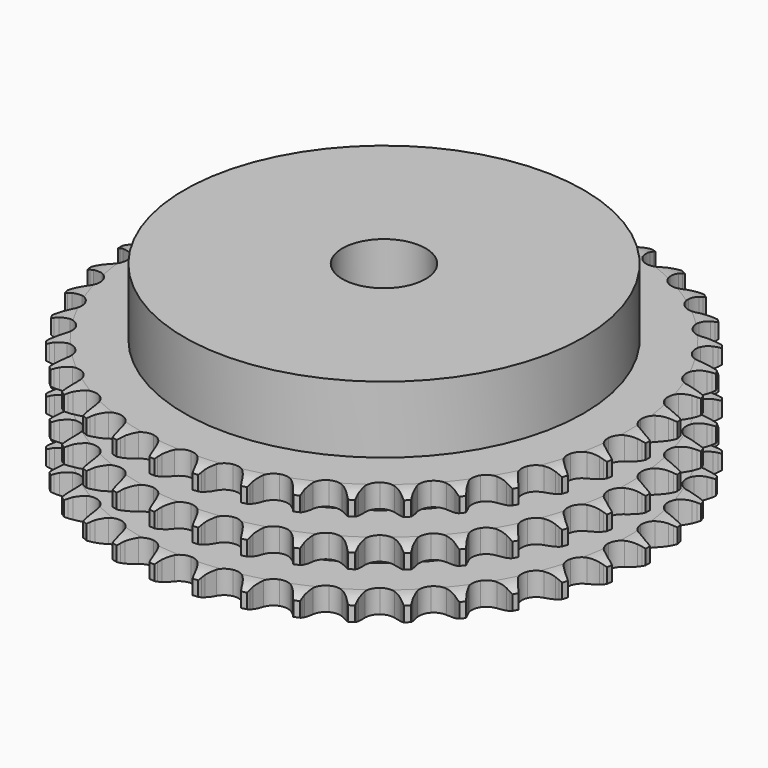
from build123d import *

# Parameters (mm, degrees)
PAD_DEPTH         = 34.9
SKETCH001_R       = 60
PAD001_DEPTH      = 55
SKETCH002_R       = 12.5
POCKET_DEPTH      = 0.001
POCKET_DEPTH_BACK = 55.001


with BuildPart() as part:
    # Sprocket → Pad (new body)
    with BuildSketch(Plane.XY):
        with BuildLine():
            ThreePointArc((-6.664627, 80.430092), (-5.93192, 79.411092), (-5.39606, 78.276157))
            Line((-5.39606, 78.276157), (-4.981042, 77.139156))
            ThreePointArc((-4.981042, 77.139156), (-4.324473, 75.677146), (-3.464601, 74.324677))
            ThreePointArc((-3.464601, 74.324677), (-1.939239, 73.041758), (0, 72.581366))
            ThreePointArc((0, 72.581366), (1.939239, 73.041758), (3.464601, 74.324677))
            ThreePointArc((3.464601, 74.324677), (4.324473, 75.677146), (4.981042, 77.139156))
            Line((4.981042, 77.139156), (5.39606, 78.276157))
            ThreePointArc((5.39606, 78.276157), (5.93192, 79.411092), (6.664627, 80.430092))
            ThreePointArc((6.664627, 80.430092), (7.21962, 79.30439), (7.561367, 78.096734))
            Line((7.561367, 78.096734), (7.78358, 76.906931))
            ThreePointArc((7.78358, 76.906931), (8.190556, 75.356794), (8.816092, 73.881239))
            ThreePointArc((8.816092, 73.881239), (10.109488, 72.364752), (11.9465, 71.591451))
            ThreePointArc((11.9465, 71.591451), (13.935068, 71.726376), (15.650788, 72.74073))
            Line((15.650788, 72.74073), (17.609795, 75.267226))
            ThreePointArc((17.609795, 75.267226), (17.893709, 75.801938), (18.206297, 76.32041))
            ThreePointArc((18.206297, 76.32041), (18.921652, 77.351666), (19.812089, 78.236169))
            ThreePointArc((19.812089, 78.236169), (20.174227, 77.034471), (20.31254, 75.787037))
            Line((20.31254, 75.787037), (20.335887, 74.576886))
            ThreePointArc((20.335887, 74.576886), (20.482168, 72.980904), (20.856304, 71.422515))
            ThreePointArc((20.856304, 71.422515), (21.882455, 69.713824), (23.567131, 68.648708))
            ThreePointArc((23.567131, 68.648708), (25.550786, 68.454485), (27.410062, 69.172607))
            Line((27.410062, 69.172607), (29.758199, 71.342202))
            ThreePointArc((29.758199, 71.342202), (30.126251, 71.822891), (30.519913, 72.282841))
            ThreePointArc((30.519913, 72.282841), (31.395252, 73.182288), (32.419128, 73.908167))
            ThreePointArc((32.419128, 73.908167), (32.578534, 72.663252), (32.50964, 71.410066))
            Line((32.50964, 71.410066), (32.333484, 70.212577))
            ThreePointArc((32.333484, 70.212577), (32.21508, 68.614286), (32.327611, 67.01557))
            ThreePointArc((32.327611, 67.01557), (33.058525, 65.161285), (34.544912, 63.833407))
            ThreePointArc((34.544912, 63.833407), (36.469544, 63.315334), (38.421661, 63.717635))
            Line((38.421661, 63.717635), (41.094876, 65.471149))
            ThreePointArc((41.094876, 65.471149), (41.537028, 65.884702), (42.001026, 66.273585))
            ThreePointArc((42.001026, 66.273585), (43.01247, 67.016689), (44.141858, 67.564143))
            ThreePointArc((44.141858, 67.564143), (44.094184, 66.30997), (43.819961, 65.085215))
            Line((43.819961, 65.085215), (43.449108, 63.933053))
            ThreePointArc((43.449108, 63.933053), (43.069248, 62.376048), (42.917105, 60.780615))
            ThreePointArc((42.917105, 60.780615), (43.332845, 58.831316), (44.580398, 57.276897))
            ThreePointArc((44.580398, 57.276897), (46.393508, 56.449105), (48.385218, 56.524611))
            Line((48.385218, 56.524611), (51.310593, 57.814214))
            ThreePointArc((51.310593, 57.814214), (51.814782, 58.149351), (52.33646, 58.456558))
            ThreePointArc((52.33646, 58.456558), (53.45642, 59.023049), (54.660513, 59.377145))
            ThreePointArc((54.660513, 59.377145), (54.407059, 58.147924), (53.934988, 56.985009))
            Line((53.934988, 56.985009), (53.379554, 55.909601))
            ThreePointArc((53.379554, 55.909601), (52.7486, 54.436355), (52.335932, 52.887723))
            ThreePointArc((52.335932, 52.887723), (52.425158, 50.896581), (53.399847, 49.158022))
            ThreePointArc((53.399847, 49.158022), (55.051979, 48.043093), (57.028952, 47.789744))
            Line((57.028952, 47.789744), (60.12669, 48.580257))
            ThreePointArc((60.12669, 48.580257), (60.679165, 48.827837), (61.244292, 49.044988))
            ThreePointArc((61.244292, 49.044988), (62.442219, 49.419413), (63.688171, 49.570493))
            ThreePointArc((63.688171, 49.570493), (63.235851, 48.399755), (62.57881, 47.3304))
            Line((62.57881, 47.3304), (61.853944, 46.361081))
            ThreePointArc((61.853944, 46.361081), (60.989107, 45.01178), (60.327171, 43.552192))
            ThreePointArc((60.327171, 43.552192), (60.087449, 41.573521), (60.762687, 39.698245))
            ThreePointArc((60.762687, 39.698245), (62.208775, 38.32659), (64.117085, 37.751298))
            Line((64.117085, 37.751298), (67.302688, 38.021158))
            ThreePointArc((67.302688, 38.021158), (67.888378, 38.174426), (68.48154, 38.295599))
            ThreePointArc((68.48154, 38.295599), (69.724757, 38.467746), (70.978583, 38.411688))
            ThreePointArc((70.978583, 38.411688), (70.339734, 37.331366), (69.515644, 36.384742))
            Line((69.515644, 36.384742), (68.64112, 35.547952))
            ThreePointArc((68.64112, 35.547952), (67.565991, 34.359401), (66.672842, 33.028671))
            ThreePointArc((66.672842, 33.028671), (66.110711, 31.116443), (66.468079, 29.155603))
            ThreePointArc((66.468079, 29.155603), (67.668677, 27.564637), (69.456271, 26.683094))
            Line((69.456271, 26.683094), (72.642844, 26.42494))
            ThreePointArc((72.642844, 26.42494), (73.245773, 26.479717), (73.850789, 26.501606))
            ThreePointArc((73.850789, 26.501606), (75.105385, 26.466778), (76.332883, 26.205112))
            ThreePointArc((76.332883, 26.205112), (75.524933, 25.244675), (74.556273, 24.446602))
            Line((74.556273, 24.446602), (73.555945, 23.765167))
            ThreePointArc((73.555945, 23.765167), (72.29985, 22.769787), (71.199852, 21.604214))
            ThreePointArc((71.199852, 21.604214), (70.330645, 19.81059), (70.360396, 17.817672))
            ThreePointArc((70.360396, 17.817672), (71.282755, 16.050793), (72.90087, 14.887045))
            Line((72.90087, 14.887045), (76.001492, 14.10792))
            ThreePointArc((76.001492, 14.10792), (76.605214, 14.06271), (77.205582, 13.984719))
            ThreePointArc((77.205582, 13.984719), (78.437334, 13.743866), (79.605022, 13.283729))
            ThreePointArc((79.605022, 13.283729), (78.650008, 12.469375), (77.563201, 11.841624))
            Line((77.563201, 11.841624), (76.464356, 11.334131))
            ThreePointArc((76.464356, 11.334131), (75.061558, 10.559072), (73.784716, 9.59045))
            ThreePointArc((73.784716, 9.59045), (72.632143, 7.964356), (72.333464, 5.993722))
            ThreePointArc((72.333464, 5.993722), (72.952425, 4.099125), (74.356925, 2.684916))
            Line((74.356925, 2.684916), (77.287018, 1.406071))
            ThreePointArc((77.287018, 1.406071), (77.875065, 1.262109), (78.454407, 1.086364))
            ThreePointArc((78.454407, 1.086364), (79.629716, 0.646056), (80.705743, 0))
            ThreePointArc((80.705743, 0), (79.629716, -0.646056), (78.454407, -1.086364))
            Line((78.454407, -1.086364), (77.287018, -1.406071))
            ThreePointArc((77.287018, -1.406071), (75.775783, -1.939666), (74.356925, -2.684916))
            ThreePointArc((74.356925, -2.684916), (72.952425, -4.099125), (72.333464, -5.993722))
            ThreePointArc((72.333464, -5.993722), (72.632143, -7.964356), (73.784716, -9.59045))
            Line((73.784716, -9.59045), (76.464356, -11.334131))
            ThreePointArc((76.464356, -11.334131), (77.020687, -11.572918), (77.563201, -11.841624))
            ThreePointArc((77.563201, -11.841624), (78.650008, -12.469375), (79.605022, -13.283729))
            ThreePointArc((79.605022, -13.283729), (78.437334, -13.743866), (77.205582, -13.984719))
            Line((77.205582, -13.984719), (76.001492, -14.10792))
            ThreePointArc((76.001492, -14.10792), (74.423041, -14.385496), (72.90087, -14.887045))
            ThreePointArc((72.90087, -14.887045), (71.282755, -16.050793), (70.360396, -17.817672))
            ThreePointArc((70.360396, -17.817672), (70.330645, -19.81059), (71.199852, -21.604214))
            Line((71.199852, -21.604214), (73.555945, -23.765167))
            ThreePointArc((73.555945, -23.765167), (74.065385, -24.092267), (74.556273, -24.446602))
            ThreePointArc((74.556273, -24.446602), (75.524933, -25.244675), (76.332883, -26.205112))
            ThreePointArc((76.332883, -26.205112), (75.105385, -26.466778), (73.850789, -26.501606))
            Line((73.850789, -26.501606), (72.642844, -26.42494))
            ThreePointArc((72.642844, -26.42494), (71.040233, -26.438926), (69.456271, -26.683094))
            ThreePointArc((69.456271, -26.683094), (67.668677, -27.564637), (66.468079, -29.155603))
            ThreePointArc((66.468079, -29.155603), (66.110711, -31.116443), (66.672842, -33.028671))
            Line((66.672842, -33.028671), (68.64112, -35.547952))
            ThreePointArc((68.64112, -35.547952), (69.089773, -35.954442), (69.515644, -36.384742))
            ThreePointArc((69.515644, -36.384742), (70.339734, -37.331366), (70.978583, -38.411688))
            ThreePointArc((70.978583, -38.411688), (69.724757, -38.467746), (68.48154, -38.295599))
            Line((68.48154, -38.295599), (67.302688, -38.021158))
            ThreePointArc((67.302688, -38.021158), (65.719633, -37.771172), (64.117085, -37.751298))
            ThreePointArc((64.117085, -37.751298), (62.208775, -38.32659), (60.762687, -39.698245))
            ThreePointArc((60.762687, -39.698245), (60.087449, -41.573521), (60.327171, -43.552192))
            Line((60.327171, -43.552192), (61.853944, -46.361081))
            ThreePointArc((61.853944, -46.361081), (62.229572, -46.835873), (62.57881, -47.3304))
            ThreePointArc((62.57881, -47.3304), (63.235851, -48.399755), (63.688171, -49.570493))
            ThreePointArc((63.688171, -49.570493), (62.442219, -49.419413), (61.244292, -49.044988))
            Line((61.244292, -49.044988), (60.12669, -48.580257))
            ThreePointArc((60.12669, -48.580257), (58.606372, -48.073118), (57.028952, -47.789744))
            ThreePointArc((57.028952, -47.789744), (55.051979, -48.043093), (53.399847, -49.158022))
            ThreePointArc((53.399847, -49.158022), (52.425158, -50.896581), (52.335932, -52.887723))
            Line((52.335932, -52.887723), (53.379554, -55.909601))
            ThreePointArc((53.379554, -55.909601), (53.67191, -56.439744), (53.934988, -56.985009))
            ThreePointArc((53.934988, -56.985009), (54.407059, -58.147924), (54.660513, -59.377145))
            ThreePointArc((54.660513, -59.377145), (53.45642, -59.023049), (52.33646, -58.456558))
            Line((52.33646, -58.456558), (51.310593, -57.814214))
            ThreePointArc((51.310593, -57.814214), (49.894483, -57.063755), (48.385218, -56.524611))
            ThreePointArc((48.385218, -56.524611), (46.393508, -56.449105), (44.580398, -57.276897))
            ThreePointArc((44.580398, -57.276897), (43.332845, -58.831316), (42.917105, -60.780615))
            Line((42.917105, -60.780615), (43.449108, -63.933053))
            ThreePointArc((43.449108, -63.933053), (43.650219, -64.504085), (43.819961, -65.085215))
            ThreePointArc((43.819961, -65.085215), (44.094184, -66.30997), (44.141858, -67.564143))
            ThreePointArc((44.141858, -67.564143), (43.01247, -67.016689), (42.001026, -66.273585))
            Line((42.001026, -66.273585), (41.094876, -65.471149))
            ThreePointArc((41.094876, -65.471149), (39.821601, -64.497842), (38.421661, -63.717635))
            ThreePointArc((38.421661, -63.717635), (36.469544, -63.315334), (34.544912, -63.833407))
            ThreePointArc((34.544912, -63.833407), (33.058525, -65.161285), (32.327611, -67.01557))
            Line((32.327611, -67.01557), (32.333484, -70.212577))
            ThreePointArc((32.333484, -70.212577), (32.437863, -70.808924), (32.50964, -71.410066))
            ThreePointArc((32.50964, -71.410066), (32.578534, -72.663252), (32.419128, -73.908167))
            ThreePointArc((32.419128, -73.908167), (31.395252, -73.182288), (30.519913, -72.282841))
            Line((30.519913, -72.282841), (29.758199, -71.342202))
            ThreePointArc((29.758199, -71.342202), (28.662491, -70.172596), (27.410062, -69.172607))
            ThreePointArc((27.410062, -69.172607), (25.550786, -68.454485), (23.567131, -68.648708))
            ThreePointArc((23.567131, -68.648708), (21.882455, -69.713824), (20.856304, -71.422515))
            Line((20.856304, -71.422515), (20.335887, -74.576886))
            ThreePointArc((20.335887, -74.576886), (20.340687, -75.182279), (20.31254, -75.787037))
            ThreePointArc((20.31254, -75.787037), (20.174227, -77.034471), (19.812089, -78.236169))
            ThreePointArc((19.812089, -78.236169), (18.921652, -77.351666), (18.206297, -76.32041))
            Line((18.206297, -76.32041), (17.609795, -75.267226))
            ThreePointArc((17.609795, -75.267226), (16.721542, -73.933224), (15.650788, -72.74073))
            ThreePointArc((15.650788, -72.74073), (13.935068, -71.726376), (11.9465, -71.591451))
            ThreePointArc((11.9465, -71.591451), (10.109488, -72.364752), (8.816092, -73.881239))
            Line((8.816092, -73.881239), (7.78358, -76.906931))
            ThreePointArc((7.78358, -76.906931), (7.688671, -77.504858), (7.561367, -78.096734))
            ThreePointArc((7.561367, -78.096734), (7.21962, -79.30439), (6.664627, -80.430092))
            ThreePointArc((6.664627, -80.430092), (5.93192, -79.411092), (5.39606, -78.276157))
            Line((5.39606, -78.276157), (4.981042, -77.139156))
            ThreePointArc((4.981042, -77.139156), (4.324473, -75.677146), (3.464601, -74.324677))
            ThreePointArc((3.464601, -74.324677), (1.939239, -73.041758), (0, -72.581366))
            ThreePointArc((0, -72.581366), (-1.939239, -73.041758), (-3.464601, -74.324677))
            Line((-3.464601, -74.324677), (-4.981042, -77.139156))
            ThreePointArc((-4.981042, -77.139156), (-5.173073, -77.713306), (-5.39606, -78.276157))
            ThreePointArc((-5.39606, -78.276157), (-5.93192, -79.411092), (-6.664627, -80.430092))
            ThreePointArc((-6.664627, -80.430092), (-7.21962, -79.30439), (-7.561367, -78.096734))
            Line((-7.561367, -78.096734), (-7.78358, -76.906931))
            ThreePointArc((-7.78358, -76.906931), (-8.190556, -75.356794), (-8.816092, -73.881239))
            ThreePointArc((-8.816092, -73.881239), (-10.109488, -72.364752), (-11.9465, -71.591451))
            ThreePointArc((-11.9465, -71.591451), (-13.935068, -71.726376), (-15.650788, -72.74073))
            Line((-15.650788, -72.74073), (-17.609795, -75.267226))
            ThreePointArc((-17.609795, -75.267226), (-17.893709, -75.801938), (-18.206297, -76.32041))
            ThreePointArc((-18.206297, -76.32041), (-18.921652, -77.351666), (-19.812089, -78.236169))
            ThreePointArc((-19.812089, -78.236169), (-20.174227, -77.034471), (-20.31254, -75.787037))
            Line((-20.31254, -75.787037), (-20.335887, -74.576886))
            ThreePointArc((-20.335887, -74.576886), (-20.482168, -72.980904), (-20.856304, -71.422515))
            ThreePointArc((-20.856304, -71.422515), (-21.882455, -69.713824), (-23.567131, -68.648708))
            ThreePointArc((-23.567131, -68.648708), (-25.550786, -68.454485), (-27.410062, -69.172607))
            Line((-27.410062, -69.172607), (-29.758199, -71.342202))
            ThreePointArc((-29.758199, -71.342202), (-30.126251, -71.822891), (-30.519913, -72.282841))
            ThreePointArc((-30.519913, -72.282841), (-31.395252, -73.182288), (-32.419128, -73.908167))
            ThreePointArc((-32.419128, -73.908167), (-32.578534, -72.663252), (-32.50964, -71.410066))
            Line((-32.50964, -71.410066), (-32.333484, -70.212577))
            ThreePointArc((-32.333484, -70.212577), (-32.21508, -68.614286), (-32.327611, -67.01557))
            ThreePointArc((-32.327611, -67.01557), (-33.058525, -65.161285), (-34.544912, -63.833407))
            ThreePointArc((-34.544912, -63.833407), (-36.469544, -63.315334), (-38.421661, -63.717635))
            Line((-38.421661, -63.717635), (-41.094876, -65.471149))
            ThreePointArc((-41.094876, -65.471149), (-41.537028, -65.884702), (-42.001026, -66.273585))
            ThreePointArc((-42.001026, -66.273585), (-43.01247, -67.016689), (-44.141858, -67.564143))
            ThreePointArc((-44.141858, -67.564143), (-44.094184, -66.30997), (-43.819961, -65.085215))
            Line((-43.819961, -65.085215), (-43.449108, -63.933053))
            ThreePointArc((-43.449108, -63.933053), (-43.069248, -62.376048), (-42.917105, -60.780615))
            ThreePointArc((-42.917105, -60.780615), (-43.332845, -58.831316), (-44.580398, -57.276897))
            ThreePointArc((-44.580398, -57.276897), (-46.393508, -56.449105), (-48.385218, -56.524611))
            Line((-48.385218, -56.524611), (-51.310593, -57.814214))
            ThreePointArc((-51.310593, -57.814214), (-51.814782, -58.149351), (-52.33646, -58.456558))
            ThreePointArc((-52.33646, -58.456558), (-53.45642, -59.023049), (-54.660513, -59.377145))
            ThreePointArc((-54.660513, -59.377145), (-54.407059, -58.147924), (-53.934988, -56.985009))
            Line((-53.934988, -56.985009), (-53.379554, -55.909601))
            ThreePointArc((-53.379554, -55.909601), (-52.7486, -54.436355), (-52.335932, -52.887723))
            ThreePointArc((-52.335932, -52.887723), (-52.425158, -50.896581), (-53.399847, -49.158022))
            ThreePointArc((-53.399847, -49.158022), (-55.051979, -48.043093), (-57.028952, -47.789744))
            Line((-57.028952, -47.789744), (-60.12669, -48.580257))
            ThreePointArc((-60.12669, -48.580257), (-60.679165, -48.827837), (-61.244292, -49.044988))
            ThreePointArc((-61.244292, -49.044988), (-62.442219, -49.419413), (-63.688171, -49.570493))
            ThreePointArc((-63.688171, -49.570493), (-63.235851, -48.399755), (-62.57881, -47.3304))
            Line((-62.57881, -47.3304), (-61.853944, -46.361081))
            ThreePointArc((-61.853944, -46.361081), (-60.989107, -45.01178), (-60.327171, -43.552192))
            ThreePointArc((-60.327171, -43.552192), (-60.087449, -41.573521), (-60.762687, -39.698245))
            ThreePointArc((-60.762687, -39.698245), (-62.208775, -38.32659), (-64.117085, -37.751298))
            Line((-64.117085, -37.751298), (-67.302688, -38.021158))
            ThreePointArc((-67.302688, -38.021158), (-67.888378, -38.174426), (-68.48154, -38.295599))
            ThreePointArc((-68.48154, -38.295599), (-69.724757, -38.467746), (-70.978583, -38.411688))
            ThreePointArc((-70.978583, -38.411688), (-70.339734, -37.331366), (-69.515644, -36.384742))
            Line((-69.515644, -36.384742), (-68.64112, -35.547952))
            ThreePointArc((-68.64112, -35.547952), (-67.565991, -34.359401), (-66.672842, -33.028671))
            ThreePointArc((-66.672842, -33.028671), (-66.110711, -31.116443), (-66.468079, -29.155603))
            ThreePointArc((-66.468079, -29.155603), (-67.668677, -27.564637), (-69.456271, -26.683094))
            Line((-69.456271, -26.683094), (-72.642844, -26.42494))
            ThreePointArc((-72.642844, -26.42494), (-73.245773, -26.479717), (-73.850789, -26.501606))
            ThreePointArc((-73.850789, -26.501606), (-75.105385, -26.466778), (-76.332883, -26.205112))
            ThreePointArc((-76.332883, -26.205112), (-75.524933, -25.244675), (-74.556273, -24.446602))
            Line((-74.556273, -24.446602), (-73.555945, -23.765167))
            ThreePointArc((-73.555945, -23.765167), (-72.29985, -22.769787), (-71.199852, -21.604214))
            ThreePointArc((-71.199852, -21.604214), (-70.330645, -19.81059), (-70.360396, -17.817672))
            ThreePointArc((-70.360396, -17.817672), (-71.282755, -16.050793), (-72.90087, -14.887045))
            Line((-72.90087, -14.887045), (-76.001492, -14.10792))
            ThreePointArc((-76.001492, -14.10792), (-76.605214, -14.06271), (-77.205582, -13.984719))
            ThreePointArc((-77.205582, -13.984719), (-78.437334, -13.743866), (-79.605022, -13.283729))
            ThreePointArc((-79.605022, -13.283729), (-78.650008, -12.469375), (-77.563201, -11.841624))
            Line((-77.563201, -11.841624), (-76.464356, -11.334131))
            ThreePointArc((-76.464356, -11.334131), (-75.061558, -10.559072), (-73.784716, -9.59045))
            ThreePointArc((-73.784716, -9.59045), (-72.632143, -7.964356), (-72.333464, -5.993722))
            ThreePointArc((-72.333464, -5.993722), (-72.952425, -4.099125), (-74.356925, -2.684916))
            Line((-74.356925, -2.684916), (-77.287018, -1.406071))
            ThreePointArc((-77.287018, -1.406071), (-77.875065, -1.262109), (-78.454407, -1.086364))
            ThreePointArc((-78.454407, -1.086364), (-79.629716, -0.646056), (-80.705743, 0))
            ThreePointArc((-80.705743, 0), (-79.629716, 0.646056), (-78.454407, 1.086364))
            Line((-78.454407, 1.086364), (-77.287018, 1.406071))
            ThreePointArc((-77.287018, 1.406071), (-75.775783, 1.939666), (-74.356925, 2.684916))
            ThreePointArc((-74.356925, 2.684916), (-72.952425, 4.099125), (-72.333464, 5.993722))
            ThreePointArc((-72.333464, 5.993722), (-72.632143, 7.964356), (-73.784716, 9.59045))
            Line((-73.784716, 9.59045), (-76.464356, 11.334131))
            ThreePointArc((-76.464356, 11.334131), (-77.020687, 11.572918), (-77.563201, 11.841624))
            ThreePointArc((-77.563201, 11.841624), (-78.650008, 12.469375), (-79.605022, 13.283729))
            ThreePointArc((-79.605022, 13.283729), (-78.437334, 13.743866), (-77.205582, 13.984719))
            Line((-77.205582, 13.984719), (-76.001492, 14.10792))
            ThreePointArc((-76.001492, 14.10792), (-74.423041, 14.385496), (-72.90087, 14.887045))
            ThreePointArc((-72.90087, 14.887045), (-71.282755, 16.050793), (-70.360396, 17.817672))
            ThreePointArc((-70.360396, 17.817672), (-70.330645, 19.81059), (-71.199852, 21.604214))
            Line((-71.199852, 21.604214), (-73.555945, 23.765167))
            ThreePointArc((-73.555945, 23.765167), (-74.065385, 24.092267), (-74.556273, 24.446602))
            ThreePointArc((-74.556273, 24.446602), (-75.524933, 25.244675), (-76.332883, 26.205112))
            ThreePointArc((-76.332883, 26.205112), (-75.105385, 26.466778), (-73.850789, 26.501606))
            Line((-73.850789, 26.501606), (-72.642844, 26.42494))
            ThreePointArc((-72.642844, 26.42494), (-71.040233, 26.438926), (-69.456271, 26.683094))
            ThreePointArc((-69.456271, 26.683094), (-67.668677, 27.564637), (-66.468079, 29.155603))
            ThreePointArc((-66.468079, 29.155603), (-66.110711, 31.116443), (-66.672842, 33.028671))
            Line((-66.672842, 33.028671), (-68.64112, 35.547952))
            ThreePointArc((-68.64112, 35.547952), (-69.089773, 35.954442), (-69.515644, 36.384742))
            ThreePointArc((-69.515644, 36.384742), (-70.339734, 37.331366), (-70.978583, 38.411688))
            ThreePointArc((-70.978583, 38.411688), (-69.724757, 38.467746), (-68.48154, 38.295599))
            Line((-68.48154, 38.295599), (-67.302688, 38.021158))
            ThreePointArc((-67.302688, 38.021158), (-65.719633, 37.771172), (-64.117085, 37.751298))
            ThreePointArc((-64.117085, 37.751298), (-62.208775, 38.32659), (-60.762687, 39.698245))
            ThreePointArc((-60.762687, 39.698245), (-60.087449, 41.573521), (-60.327171, 43.552192))
            Line((-60.327171, 43.552192), (-61.853944, 46.361081))
            ThreePointArc((-61.853944, 46.361081), (-62.229572, 46.835873), (-62.57881, 47.3304))
            ThreePointArc((-62.57881, 47.3304), (-63.235851, 48.399755), (-63.688171, 49.570493))
            ThreePointArc((-63.688171, 49.570493), (-62.442219, 49.419413), (-61.244292, 49.044988))
            Line((-61.244292, 49.044988), (-60.12669, 48.580257))
            ThreePointArc((-60.12669, 48.580257), (-58.606372, 48.073118), (-57.028952, 47.789744))
            ThreePointArc((-57.028952, 47.789744), (-55.051979, 48.043093), (-53.399847, 49.158022))
            ThreePointArc((-53.399847, 49.158022), (-52.425158, 50.896581), (-52.335932, 52.887723))
            Line((-52.335932, 52.887723), (-53.379554, 55.909601))
            ThreePointArc((-53.379554, 55.909601), (-53.67191, 56.439744), (-53.934988, 56.985009))
            ThreePointArc((-53.934988, 56.985009), (-54.407059, 58.147924), (-54.660513, 59.377145))
            ThreePointArc((-54.660513, 59.377145), (-53.45642, 59.023049), (-52.33646, 58.456558))
            Line((-52.33646, 58.456558), (-51.310593, 57.814214))
            ThreePointArc((-51.310593, 57.814214), (-49.894483, 57.063755), (-48.385218, 56.524611))
            ThreePointArc((-48.385218, 56.524611), (-46.393508, 56.449105), (-44.580398, 57.276897))
            ThreePointArc((-44.580398, 57.276897), (-43.332845, 58.831316), (-42.917105, 60.780615))
            Line((-42.917105, 60.780615), (-43.449108, 63.933053))
            ThreePointArc((-43.449108, 63.933053), (-43.650219, 64.504085), (-43.819961, 65.085215))
            ThreePointArc((-43.819961, 65.085215), (-44.094184, 66.30997), (-44.141858, 67.564143))
            ThreePointArc((-44.141858, 67.564143), (-43.01247, 67.016689), (-42.001026, 66.273585))
            Line((-42.001026, 66.273585), (-41.094876, 65.471149))
            ThreePointArc((-41.094876, 65.471149), (-39.821601, 64.497842), (-38.421661, 63.717635))
            ThreePointArc((-38.421661, 63.717635), (-36.469544, 63.315334), (-34.544912, 63.833407))
            ThreePointArc((-34.544912, 63.833407), (-33.058525, 65.161285), (-32.327611, 67.01557))
            Line((-32.327611, 67.01557), (-32.333484, 70.212577))
            ThreePointArc((-32.333484, 70.212577), (-32.437863, 70.808924), (-32.50964, 71.410066))
            ThreePointArc((-32.50964, 71.410066), (-32.578534, 72.663252), (-32.419128, 73.908167))
            ThreePointArc((-32.419128, 73.908167), (-31.395252, 73.182288), (-30.519913, 72.282841))
            Line((-30.519913, 72.282841), (-29.758199, 71.342202))
            ThreePointArc((-29.758199, 71.342202), (-28.662491, 70.172596), (-27.410062, 69.172607))
            ThreePointArc((-27.410062, 69.172607), (-25.550786, 68.454485), (-23.567131, 68.648708))
            ThreePointArc((-23.567131, 68.648708), (-21.882455, 69.713824), (-20.856304, 71.422515))
            Line((-20.856304, 71.422515), (-20.335887, 74.576886))
            ThreePointArc((-20.335887, 74.576886), (-20.340687, 75.182279), (-20.31254, 75.787037))
            ThreePointArc((-20.31254, 75.787037), (-20.174227, 77.034471), (-19.812089, 78.236169))
            ThreePointArc((-19.812089, 78.236169), (-18.921652, 77.351666), (-18.206297, 76.32041))
            Line((-18.206297, 76.32041), (-17.609795, 75.267226))
            ThreePointArc((-17.609795, 75.267226), (-16.721542, 73.933224), (-15.650788, 72.74073))
            ThreePointArc((-15.650788, 72.74073), (-13.935068, 71.726376), (-11.9465, 71.591451))
            ThreePointArc((-11.9465, 71.591451), (-10.109488, 72.364752), (-8.816092, 73.881239))
            Line((-8.816092, 73.881239), (-7.78358, 76.906931))
            ThreePointArc((-7.78358, 76.906931), (-7.688671, 77.504858), (-7.561367, 78.096734))
            ThreePointArc((-7.561367, 78.096734), (-7.21962, 79.30439), (-6.664627, 80.430092))
        make_face()
    extrude(amount=PAD_DEPTH)

    # Sketch → Groove (revolve, cut)
    with BuildSketch(Plane.XZ):
        with BuildLine():
            ThreePointArc((73.633431, 0), (76.54032, 0.329167), (79.3, 1.3))
            Line((79.3, 1.3), (79.3, 5.7))
            ThreePointArc((79.3, 5.7), (76.54032, 6.670833), (73.633431, 7))
            Line((60, 7), (73.633431, 7))
            Line((60, 7), (60, 13.95))
            Line((60, 13.95), (73.633431, 13.95))
            ThreePointArc((73.633431, 13.95), (76.54032, 14.279167), (79.3, 15.25))
            Line((79.3, 19.65), (79.3, 15.25))
            ThreePointArc((79.3, 19.65), (76.54032, 20.620833), (73.633431, 20.95))
            Line((60, 20.95), (73.633431, 20.95))
            Line((60, 27.9), (60, 20.95))
            Line((73.633431, 27.9), (60, 27.9))
            ThreePointArc((73.633431, 27.9), (76.54032, 28.229167), (79.3, 29.2))
            Line((79.3, 29.2), (79.3, 33.6))
            ThreePointArc((79.3, 33.6), (76.54032, 34.570833), (73.633431, 34.9))
            Line((73.633431, 34.9), (89.3, 34.9))
            Line((89.3, 34.9), (89.3, 0))
            Line((73.633431, 0), (89.3, 0))
        make_face()
    revolve(axis=Axis((0, 0, 0), (0, 0, 1)), mode=Mode.SUBTRACT)

    # Sketch001 → Pad001 (join)
    with BuildSketch(Plane.XY):
        Circle(SKETCH001_R)
    extrude(amount=PAD001_DEPTH)

    # Sketch002 → Pocket (cut, two sides)
    with BuildSketch(Plane.XY) as pocket_sk:
        Circle(SKETCH002_R)
    extrude(amount=-POCKET_DEPTH, mode=Mode.SUBTRACT)
    extrude(pocket_sk.sketch, amount=POCKET_DEPTH_BACK, mode=Mode.SUBTRACT)


solid = part.part
